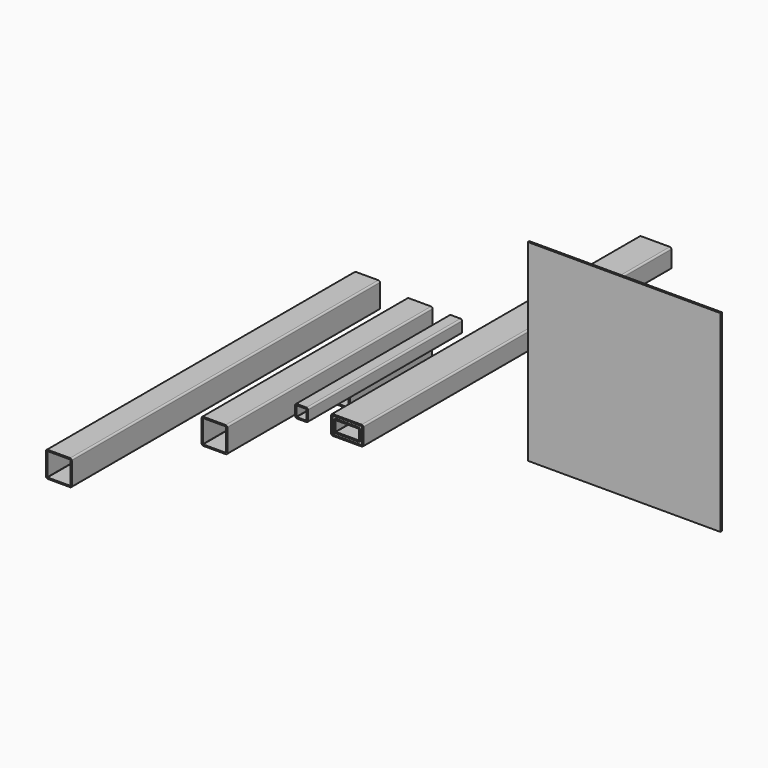
from build123d import *

# Parameters (mm, degrees)
F1_DEPTH  = 300
F3_DEPTH  = 300
F6_DEPTH  = 300
F8_DEPTH  = 160
F9_W      = 300
F9_H      = 300
F10_DEPTH = 3
F12_DEPTH = 260
F14_DEPTH = 600
F15_DEPTH = 400


with BuildPart() as f1:
    # F0 (on Front) → F1 (new body, symmetric)
    with BuildSketch(Plane.XZ):
        with BuildLine():
            ThreePointArc((25, 12.5), (24.267767, 14.267767), (22.5, 15))
            Line((22.5, 15), (-22.5, 15))
            ThreePointArc((-22.5, 15), (-24.267767, 14.267767), (-25, 12.5))
            Line((-25, 12.5), (-25, -12.5))
            ThreePointArc((-25, -12.5), (-24.267767, -14.267767), (-22.5, -15))
            Line((-22.5, -15), (22.5, -15))
            ThreePointArc((22.5, -15), (24.267767, -14.267767), (25, -12.5))
            Line((25, -12.5), (25, 12.5))
        make_face()
        with BuildLine():
            Line((-22.5, 13), (22.5, 13))
            ThreePointArc((22.5, 13), (22.853553, 12.853553), (23, 12.5))
            Line((23, 12.5), (23, -12.5))
            ThreePointArc((23, -12.5), (22.853553, -12.853553), (22.5, -13))
            Line((22.5, -13), (-22.5, -13))
            ThreePointArc((-22.5, -13), (-22.853553, -12.853553), (-23, -12.5))
            Line((-23, -12.5), (-23, 12.5))
            ThreePointArc((-23, 12.5), (-22.853553, 12.853553), (-22.5, 13))
        make_face(mode=Mode.SUBTRACT)
    extrude(amount=F1_DEPTH, both=True)


with BuildPart() as f3:
    # F2 (on Front) → F3 (new body, symmetric)
    with BuildSketch(Plane.XZ):
        with BuildLine():
            Line((17.5, 10), (-17.5, 10))
            ThreePointArc((-17.5, 10), (-19.267767, 9.267767), (-20, 7.5))
            Line((-20, 7.5), (-20, -7.5))
            ThreePointArc((-20, -7.5), (-19.267767, -9.267767), (-17.5, -10))
            Line((-17.5, -10), (17.5, -10))
            ThreePointArc((17.5, -10), (19.267767, -9.267767), (20, -7.5))
            Line((20, -7.5), (20, 7.5))
            ThreePointArc((20, 7.5), (19.267767, 9.267767), (17.5, 10))
        make_face()
        with BuildLine():
            ThreePointArc((-18, 7.5), (-17.853553, 7.853553), (-17.5, 8))
            Line((-17.5, 8), (17.5, 8))
            ThreePointArc((17.5, 8), (17.853553, 7.853553), (18, 7.5))
            Line((18, 7.5), (18, -7.5))
            ThreePointArc((18, -7.5), (17.853553, -7.853553), (17.5, -8))
            Line((17.5, -8), (-17.5, -8))
            ThreePointArc((-17.5, -8), (-17.853553, -7.853553), (-18, -7.5))
            Line((-18, -7.5), (-18, 7.5))
        make_face(mode=Mode.SUBTRACT)
    extrude(amount=F3_DEPTH, both=True)


with BuildPart() as f6:
    # F5 (on Front) → F6 (new body)
    with BuildSketch(Plane.XZ):
        with BuildLine():
            Line((-63.618955, 10.562212), (-78.618955, 10.562212))
            ThreePointArc((-78.618955, 10.562212), (-80.386722, 9.829979), (-81.118955, 8.062212))
            Line((-81.118955, 8.062212), (-81.118955, -6.937788))
            ThreePointArc((-81.118955, -6.937788), (-80.386722, -8.705555), (-78.618955, -9.437788))
            Line((-78.618955, -9.437788), (-63.618955, -9.437788))
            ThreePointArc((-63.618955, -9.437788), (-61.851188, -8.705555), (-61.118955, -6.937788))
            Line((-61.118955, -6.937788), (-61.118955, 8.062212))
            ThreePointArc((-61.118955, 8.062212), (-61.851188, 9.829979), (-63.618955, 10.562212))
        make_face()
        with BuildLine():
            ThreePointArc((-79.118955, 8.062212), (-78.972508, 8.415765), (-78.618955, 8.562212))
            Line((-78.618955, 8.562212), (-63.618955, 8.562212))
            ThreePointArc((-63.618955, 8.562212), (-63.265401, 8.415765), (-63.118955, 8.062212))
            Line((-63.118955, 8.062212), (-63.118955, -6.937788))
            ThreePointArc((-63.118955, -6.937788), (-63.265401, -7.291342), (-63.618955, -7.437788))
            Line((-63.618955, -7.437788), (-78.618955, -7.437788))
            ThreePointArc((-78.618955, -7.437788), (-78.972508, -7.291342), (-79.118955, -6.937788))
            Line((-79.118955, -6.937788), (-79.118955, 8.062212))
        make_face(mode=Mode.SUBTRACT)
    extrude(amount=F6_DEPTH)


with BuildPart() as f8:
    # F7 (on Front) → F8 (new body)
    with BuildSketch(Plane.XZ):
        with BuildLine():
            Line((-110.333331, -43.439553), (-145.333331, -43.439553))
            ThreePointArc((-145.333331, -43.439553), (-147.101098, -44.171786), (-147.833331, -45.939553))
            Line((-147.833331, -45.939553), (-147.833331, -60.939553))
            ThreePointArc((-147.833331, -60.939553), (-147.101098, -62.70732), (-145.333331, -63.439553))
            Line((-145.333331, -63.439553), (-110.333331, -63.439553))
            ThreePointArc((-110.333331, -63.439553), (-108.565564, -62.70732), (-107.833331, -60.939553))
            Line((-107.833331, -60.939553), (-107.833331, -45.939553))
            ThreePointArc((-107.833331, -45.939553), (-108.565564, -44.171786), (-110.333331, -43.439553))
        make_face()
        with BuildLine():
            ThreePointArc((-145.833331, -45.939553), (-145.686884, -45.586), (-145.333331, -45.439553))
            Line((-145.333331, -45.439553), (-110.333331, -45.439553))
            ThreePointArc((-110.333331, -45.439553), (-109.979778, -45.586), (-109.833331, -45.939553))
            Line((-109.833331, -45.939553), (-109.833331, -60.939553))
            ThreePointArc((-109.833331, -60.939553), (-109.979778, -61.293106), (-110.333331, -61.439553))
            Line((-110.333331, -61.439553), (-145.333331, -61.439553))
            ThreePointArc((-145.333331, -61.439553), (-145.686884, -61.293106), (-145.833331, -60.939553))
            Line((-145.833331, -60.939553), (-145.833331, -45.939553))
        make_face(mode=Mode.SUBTRACT)
    extrude(amount=F8_DEPTH)


with BuildPart() as f10:
    # F9 (on Front) → F10 (new body)
    with BuildSketch(Plane.XZ):
        with Locations((193.61024, 1.659309)):
            Rectangle(F9_W, F9_H)
    extrude(amount=F10_DEPTH)


with BuildPart() as f12:
    # F11 (on Front) → F12 (new body)
    with BuildSketch(Plane.XZ):
        with BuildLine():
            Line((-168.173266, -40.080923), (-203.173266, -40.080923))
            ThreePointArc((-203.173266, -40.080923), (-204.941033, -40.813156), (-205.673266, -42.580923))
            Line((-205.673266, -42.580923), (-205.673266, -57.580923))
            ThreePointArc((-205.673266, -57.580923), (-204.941033, -59.34869), (-203.173266, -60.080923))
            Line((-203.173266, -60.080923), (-168.173266, -60.080923))
            ThreePointArc((-168.173266, -60.080923), (-166.405499, -59.34869), (-165.673266, -57.580923))
            Line((-165.673266, -57.580923), (-165.673266, -42.580923))
            ThreePointArc((-165.673266, -42.580923), (-166.405499, -40.813156), (-168.173266, -40.080923))
        make_face()
        with BuildLine():
            ThreePointArc((-203.673266, -42.580923), (-203.526819, -42.22737), (-203.173266, -42.080923))
            Line((-203.173266, -42.080923), (-168.173266, -42.080923))
            ThreePointArc((-168.173266, -42.080923), (-167.819712, -42.22737), (-167.673266, -42.580923))
            Line((-167.673266, -42.580923), (-167.673266, -57.580923))
            ThreePointArc((-167.673266, -57.580923), (-167.819712, -57.934476), (-168.173266, -58.080923))
            Line((-168.173266, -58.080923), (-203.173266, -58.080923))
            ThreePointArc((-203.173266, -58.080923), (-203.526819, -57.934476), (-203.673266, -57.580923))
            Line((-203.673266, -57.580923), (-203.673266, -42.580923))
        make_face(mode=Mode.SUBTRACT)
    extrude(amount=F12_DEPTH)


with BuildPart() as f14:
    # F13 (on Front) → F14 (new body)
    with BuildSketch(Plane.XZ):
        with BuildLine():
            Line((-191.616746, 21.583727), (-226.616746, 21.583727))
            ThreePointArc((-226.616746, 21.583727), (-228.384513, 20.851494), (-229.116746, 19.083727))
            Line((-229.116746, 19.083727), (-229.116746, -15.916273))
            ThreePointArc((-229.116746, -15.916273), (-228.384513, -17.68404), (-226.616746, -18.416273))
            Line((-226.616746, -18.416273), (-191.616746, -18.416273))
            ThreePointArc((-191.616746, -18.416273), (-189.848979, -17.68404), (-189.116746, -15.916273))
            Line((-189.116746, -15.916273), (-189.116746, 19.083727))
            ThreePointArc((-189.116746, 19.083727), (-189.848979, 20.851494), (-191.616746, 21.583727))
        make_face()
        with BuildLine():
            ThreePointArc((-227.116746, 19.083727), (-226.9703, 19.43728), (-226.616746, 19.583727))
            Line((-226.616746, 19.583727), (-191.616746, 19.583727))
            ThreePointArc((-191.616746, 19.583727), (-191.263193, 19.43728), (-191.116746, 19.083727))
            Line((-191.116746, 19.083727), (-191.116746, -15.916273))
            ThreePointArc((-191.116746, -15.916273), (-191.263193, -16.269827), (-191.616746, -16.416273))
            Line((-191.616746, -16.416273), (-226.616746, -16.416273))
            ThreePointArc((-226.616746, -16.416273), (-226.9703, -16.269827), (-227.116746, -15.916273))
            Line((-227.116746, -15.916273), (-227.116746, 19.083727))
        make_face(mode=Mode.SUBTRACT)
    extrude(amount=F14_DEPTH)


with BuildPart() as f15:
    # F4 (on Front) → F15 (new body)
    with BuildSketch(Plane.XZ):
        with BuildLine():
            Line((-109.334691, 12.358871), (-144.334691, 12.358871))
            ThreePointArc((-144.334691, 12.358871), (-146.102458, 11.626638), (-146.834691, 9.858871))
            Line((-146.834691, 9.858871), (-146.834691, -25.141129))
            ThreePointArc((-146.834691, -25.141129), (-146.102458, -26.908896), (-144.334691, -27.641129))
            Line((-144.334691, -27.641129), (-109.334691, -27.641129))
            ThreePointArc((-109.334691, -27.641129), (-107.566924, -26.908896), (-106.834691, -25.141129))
            Line((-106.834691, -25.141129), (-106.834691, 9.858871))
            ThreePointArc((-106.834691, 9.858871), (-107.566924, 11.626638), (-109.334691, 12.358871))
        make_face()
        with BuildLine():
            ThreePointArc((-144.834691, 9.858871), (-144.688244, 10.212424), (-144.334691, 10.358871))
            Line((-144.334691, 10.358871), (-109.334691, 10.358871))
            ThreePointArc((-109.334691, 10.358871), (-108.981137, 10.212424), (-108.834691, 9.858871))
            Line((-108.834691, 9.858871), (-108.834691, -25.141129))
            ThreePointArc((-108.834691, -25.141129), (-108.981137, -25.494682), (-109.334691, -25.641129))
            Line((-109.334691, -25.641129), (-144.334691, -25.641129))
            ThreePointArc((-144.334691, -25.641129), (-144.688244, -25.494682), (-144.834691, -25.141129))
            Line((-144.834691, -25.141129), (-144.834691, 9.858871))
        make_face(mode=Mode.SUBTRACT)
    extrude(amount=F15_DEPTH)


solid = Compound([f1.part, f3.part, f6.part, f8.part, f10.part, f12.part, f14.part, f15.part])
